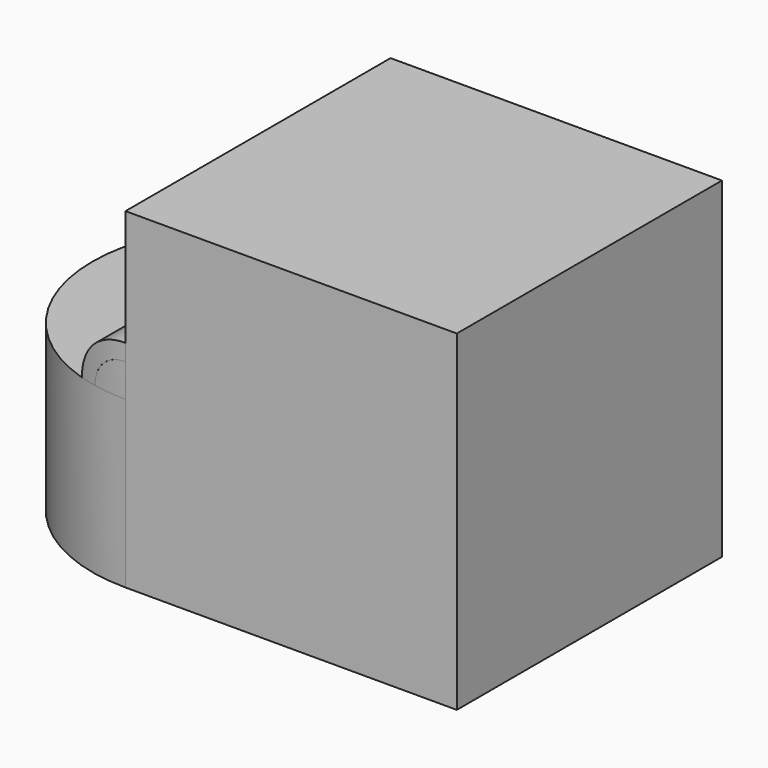
from build123d import *

# Parameters (mm, degrees)
F1_DEPTH  = 12.7
F0_W      = 25.4
F0_H      = 25.4
F2_DEPTH  = 25.4
F4_DEPTH  = 25.4
F6_DEPTH  = 25.4
F8_DEPTH  = 25.4
F10_DEPTH = 25.4


with BuildPart() as f1:
    # F0 (on Top) → F1 (new body)
    with BuildSketch(Plane.XY):
        with BuildLine():
            ThreePointArc((0, 25.4), (-12.7, 12.7), (0, 0))
            Line((0, 0), (0, 25.4))
        make_face()
    extrude(amount=F1_DEPTH)

    # F0 (on Top) → F2 (join)
    with BuildSketch(Plane.XY):
        with Locations((12.7, 12.7)):
            Rectangle(F0_W, F0_H)
    extrude(amount=F2_DEPTH)


with BuildPart() as f4:
    # F3 (on face) → F4 (new body)
    with BuildSketch(Plane.XZ):
        with BuildLine():
            Line((-2.54, 12.7), (0, 12.7))
            Line((0, 12.7), (0, 15.24))
            ThreePointArc((0, 15.24), (-1.796051, 14.496051), (-2.54, 12.7))
        make_face()
    extrude(amount=-F4_DEPTH)


with BuildPart() as f6:
    # F5 (on face) → F6 (new body)
    with BuildSketch(Plane.XZ):
        with BuildLine():
            Line((-3.81, 12.7), (-2.54, 12.7))
            ThreePointArc((-2.54, 12.7), (-1.796051, 14.496051), (0, 15.24))
            Line((0, 15.24), (0, 16.51))
            ThreePointArc((0, 16.51), (-2.694077, 15.394077), (-3.81, 12.7))
        make_face()
    extrude(amount=-F6_DEPTH)


with BuildPart() as f8:
    # F7 (on face) → F8 (new body)
    with BuildSketch(Plane.XY.offset(12.7)):
        with BuildLine():
            Line((0, 0), (0, 25.4))
            ThreePointArc((0, 25.4), (-12.7, 12.7), (0, 0))
        make_face()
    extrude(amount=F8_DEPTH)

    # F9: intersect F4
    add(f4.part, mode=Mode.INTERSECT)


with BuildPart() as f10:
    # F1_face (on face) → F10 (new body)
    with BuildSketch(Plane(origin=(-5.390047, 12.7, 12.7), x_dir=(1, 0, 0), z_dir=(0, 0, 1))):
        with BuildLine():
            Line((5.390047, -12.7), (5.390047, 12.7))
            ThreePointArc((5.390047, 12.7), (-7.309953, 0), (5.390047, -12.7))
        make_face()
    extrude(amount=F10_DEPTH)

    # F11: intersect F6
    add(f6.part, mode=Mode.INTERSECT)


solid = Compound([f1.part, f8.part, f10.part])
